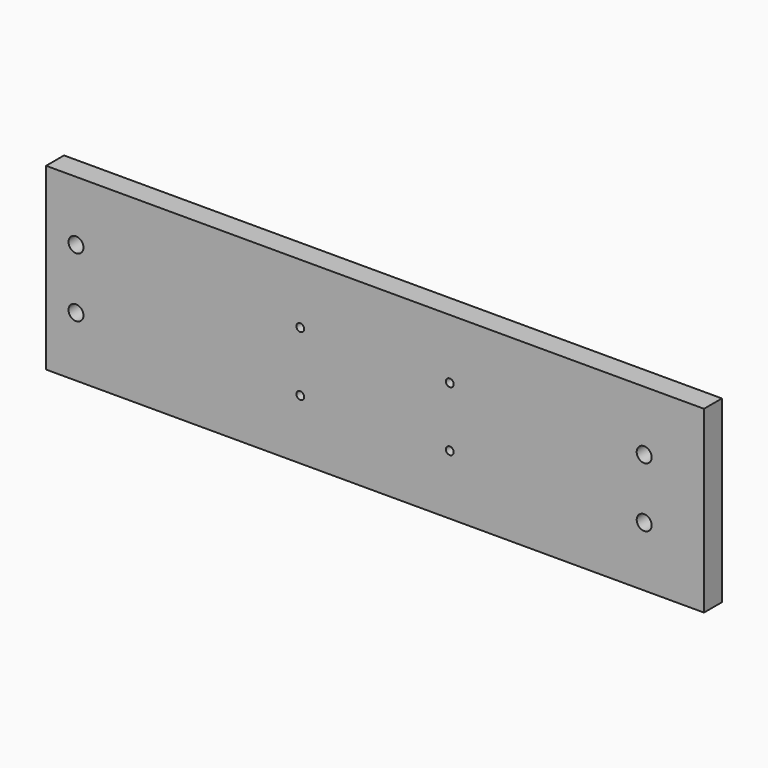
from build123d import *

# Parameters (mm, degrees)
F0_R     = 3.175
F0_R_2   = 1.651
F1_DEPTH = 9.525


with BuildPart() as f1:
    # F0 (on Front) → F1 (new body)
    with BuildSketch(Plane.XZ):
        Polygon((139.7, 38.1), (-139.7, 38.1), (-139.7, 0), (-139.7, -38.1), (139.7, -38.1), (139.7, 0), align=None)
        with Locations((-127, -12.7)):
            Circle(F0_R, mode=Mode.SUBTRACT)
        with Locations((-31.75, -12.7)):
            Circle(F0_R_2, mode=Mode.SUBTRACT)
        with Locations((31.75, -12.7)):
            Circle(F0_R_2, mode=Mode.SUBTRACT)
        with Locations((114.3, -12.7)):
            Circle(F0_R, mode=Mode.SUBTRACT)
        with Locations((-127, 12.7)):
            Circle(F0_R, mode=Mode.SUBTRACT)
        with Locations((-31.75, 12.7)):
            Circle(F0_R_2, mode=Mode.SUBTRACT)
        with Locations((31.75, 12.7)):
            Circle(F0_R_2, mode=Mode.SUBTRACT)
        with Locations((114.3, 12.7)):
            Circle(F0_R, mode=Mode.SUBTRACT)
    extrude(amount=F1_DEPTH)


solid = f1.part
